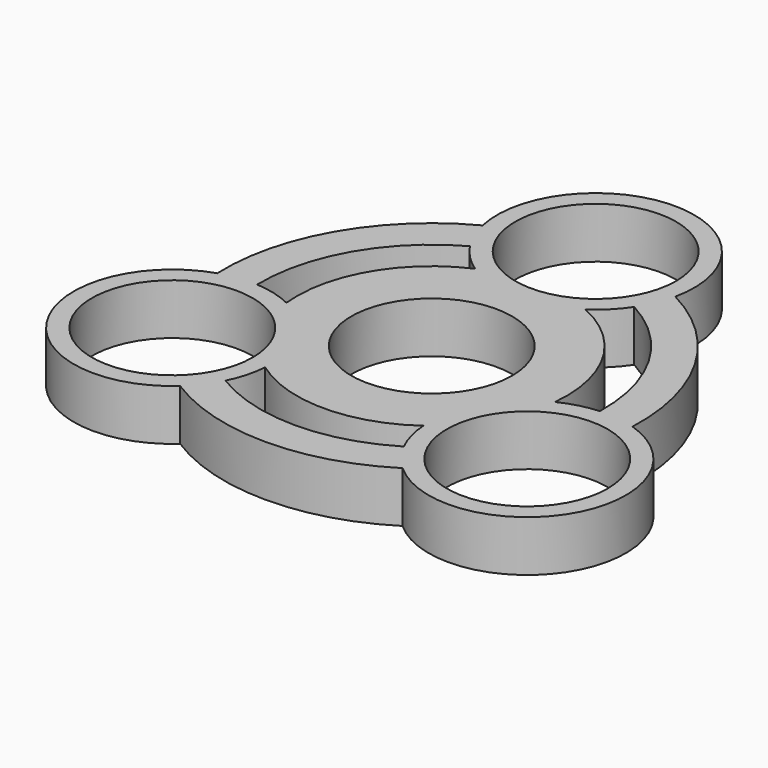
from build123d import *

# Parameters (mm, degrees)
F0_R     = 11.05
F0_R_2   = 13.55
F1_DEPTH = 7


with BuildPart() as f1:
    # F0 (on Top) → F1 (new body)
    with BuildSketch(Plane.XY):
        with BuildLine():
            ThreePointArc((28.525726, -1.177043), (24.725025, 14.275), (13.243514, 25.292525))
            ThreePointArc((13.243514, 25.292525), (0, 41.708154), (-13.243514, 25.292525))
            ThreePointArc((-13.243514, 25.292525), (-24.725025, 14.275), (-28.525726, -1.177043))
            ThreePointArc((-28.525726, -1.177043), (-36.120321, -20.854077), (-15.282212, -24.115482))
            ThreePointArc((-15.282212, -24.115482), (0, -28.55), (15.282212, -24.115482))
            ThreePointArc((15.282212, -24.115482), (36.120321, -20.854077), (28.525726, -1.177043))
        make_face()
        with Locations((-24.385677, -14.079077)):
            Circle(F0_R, mode=Mode.SUBTRACT)
        with BuildLine():
            ThreePointArc((12.252611, -20.111589), (0, -23.55), (-12.252611, -20.111589))
            ThreePointArc((-12.252611, -20.111589), (-11.311855, -17.639648), (-10.869229, -15.032044))
            ThreePointArc((-10.869229, -15.032044), (0, -18.55), (10.869229, -15.032044))
            ThreePointArc((10.869229, -15.032044), (11.311855, -17.639648), (12.252611, -20.111589))
        make_face(mode=Mode.SUBTRACT)
        with Locations((24.385677, -14.079077)):
            Circle(F0_R, mode=Mode.SUBTRACT)
        Circle(F0_R_2, mode=Mode.SUBTRACT)
        with BuildLine():
            ThreePointArc((-23.543453, -0.555277), (-20.394898, 11.775), (-11.290842, 20.666867))
            ThreePointArc((-11.290842, 20.666867), (-9.620456, 18.616177), (-7.583517, 16.929051))
            ThreePointArc((-7.583517, 16.929051), (-16.064771, 9.275), (-18.452747, -1.897007))
            ThreePointArc((-18.452747, -1.897007), (-20.932311, -0.976529), (-23.543453, -0.555277))
        make_face(mode=Mode.SUBTRACT)
        with BuildLine():
            ThreePointArc((23.543453, -0.555277), (20.932311, -0.976529), (18.452747, -1.897007))
            ThreePointArc((18.452747, -1.897007), (16.064771, 9.275), (7.583517, 16.929051))
            ThreePointArc((7.583517, 16.929051), (9.620456, 18.616177), (11.290842, 20.666867))
            ThreePointArc((11.290842, 20.666867), (20.394898, 11.775), (23.543453, -0.555277))
        make_face(mode=Mode.SUBTRACT)
        with Locations((0, 28.158154)):
            Circle(F0_R, mode=Mode.SUBTRACT)
        Circle(F0_R_2)
        Circle(F0_R, mode=Mode.SUBTRACT)
    extrude(amount=F1_DEPTH)


solid = f1.part
